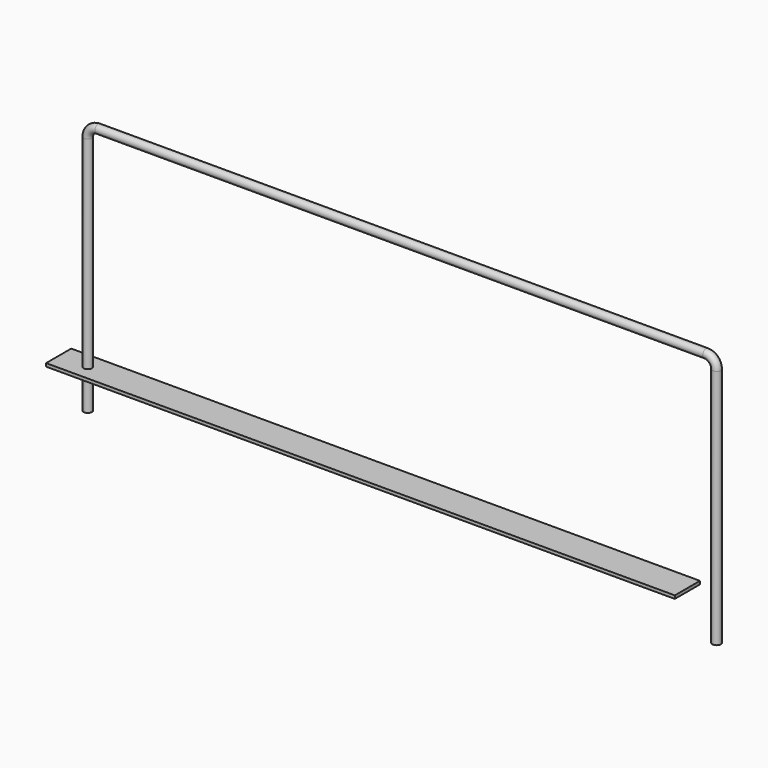
from build123d import *

# Parameters (mm, degrees)
F1_R     = 5.08
F3_W     = 38.1
F3_H     = 3.81
F4_DEPTH = 381


with BuildPart() as f2:
    # F2: sweep along a path in F0
    with BuildLine(Plane.XZ) as f2_path:
        Line((-345.471335, 0), (-345.471335, 292.1))
        ThreePointArc((-345.471335, 292.1), (-341.751591, 301.080256), (-332.771335, 304.8))
        Line((-332.771335, 304.8), (403.828665, 304.8))
        ThreePointArc((403.828665, 304.8), (412.808921, 301.080256), (416.528665, 292.1))
        Line((416.528665, 292.1), (416.528665, 0))
    # F1 (on Top) → F2 (sweep)
    with BuildSketch(Plane.XY):
        with Locations((-345.471335, 0)):
            Circle(F1_R)
    sweep(path=f2_path.line)

    # F3 (on Right) → F4 (join, symmetric)
    with BuildSketch(Plane.YZ):
        with Locations((0.267047, 44.76991)):
            Rectangle(F3_W, F3_H)
    extrude(amount=F4_DEPTH, both=True)


solid = f2.part
